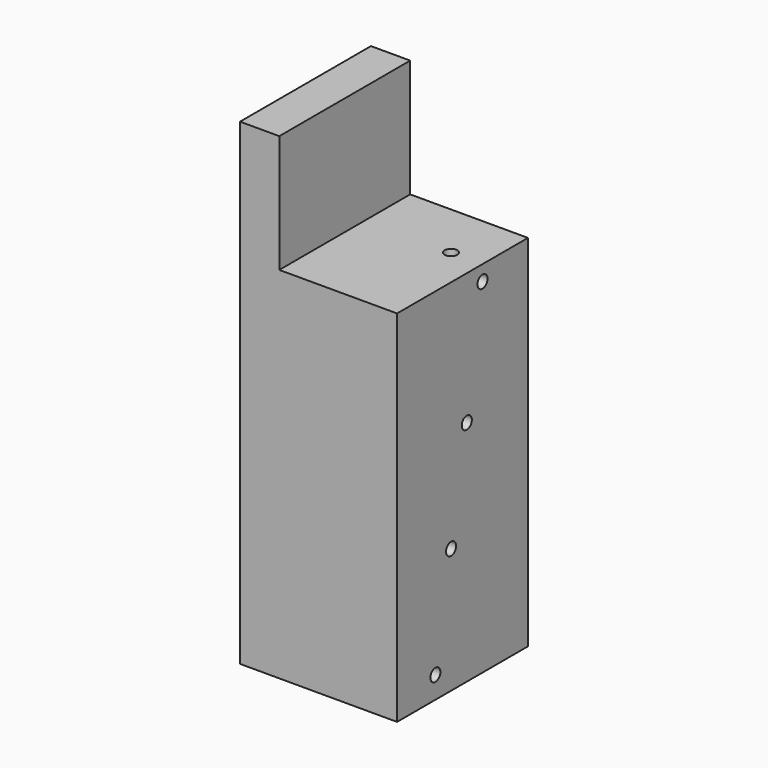
from build123d import *

# Parameters (mm, degrees)
F1_DEPTH = 26.05
F2_R     = 1
F3_DEPTH = 5
F4_R     = 1
F5_DEPTH = 5


with BuildPart() as f1:
    # F0 (on Front) → F1 (new body)
    with BuildSketch(Plane.XZ):
        Polygon((0, 76), (0, 0), (25, 0), (25, 57.25), (6.25, 57.25), (6.25, 76), align=None)
    extrude(amount=-F1_DEPTH)

    # F2 (on face) → F3 (cut)
    with BuildSketch(Plane.YZ.offset(25)):
        with Locations((17, 54.8)):
            Circle(F2_R)
        with Locations((13.875, 36.3)):
            Circle(F2_R)
        with Locations((10.75, 19.9)):
            Circle(F2_R)
        with Locations((7.625, 3.5)):
            Circle(F2_R)
    extrude(amount=-F3_DEPTH, mode=Mode.SUBTRACT)

    # F4 (on face) → F5 (cut)
    with BuildSketch(Plane.XY.offset(57.25)):
        with Locations((20, 17)):
            Circle(F4_R)
    extrude(amount=-F5_DEPTH, mode=Mode.SUBTRACT)


solid = f1.part
